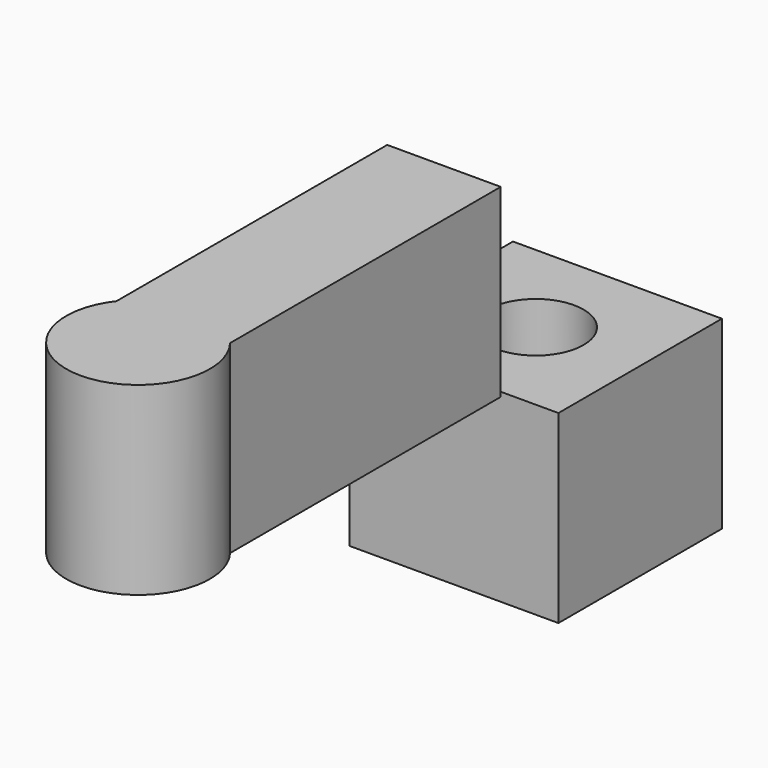
from build123d import *

# Parameters (mm, degrees)
F0_W     = 28.6975428462
F0_H     = 28.0736833811
F1_DEPTH = 25.4
F2_R     = 6.580164917
F3_DEPTH = 25.4
F5_W     = 15.596492216
F5_H     = 46.4775450528
F6_DEPTH = 25.4


with BuildPart() as f1:
    # F0 (on Top) → F1 (new body)
    with BuildSketch(Plane.XY):
        with Locations((-36.183860153, 34.7801744938)):
            Rectangle(F0_W, F0_H)
    extrude(amount=F1_DEPTH)

    # F2 (on face) → F3 (cut, through all)
    with BuildSketch(Plane.XY.offset(25.4)):
        with Locations((-36.183860153, 34.7801744938)):
            Circle(F2_R)
    extrude(amount=-F3_DEPTH, mode=Mode.SUBTRACT)


with BuildPart() as f6:
    # F5 (on offset) → F6 (new body)
    with BuildSketch(Plane.XY.offset(25.4)):
        with Locations((-36.8077205494, -3.4312289208)):
            Rectangle(F5_W, F5_H)
        with BuildLine():
            Line((-29.0094744414, -26.6700014472), (-44.6059666574, -26.6700014472))
            ThreePointArc((-44.6059666574, -26.6700014472), (-36.8077205494, -42.5859439403), (-29.0094744414, -26.6700014472))
        make_face()
    extrude(amount=F6_DEPTH)


solid = Compound([f1.part, f6.part])
